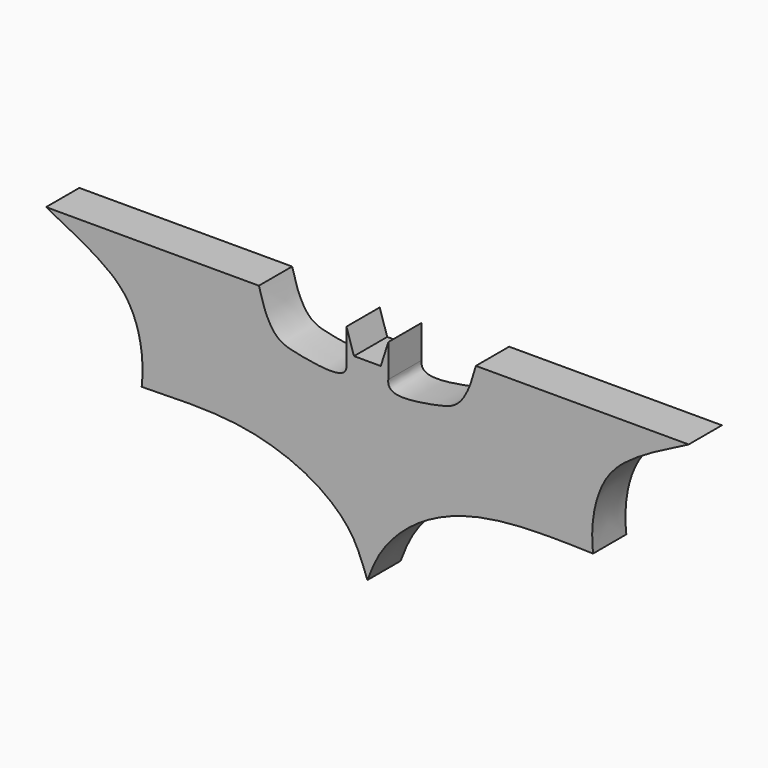
from build123d import *

# Parameters (mm, degrees)
F1_DEPTH = 12.7


with BuildPart() as f1:
    # F0 (on Front) → F1 (new body)
    with BuildSketch(Plane.XZ):
        with BuildLine():
            Line((-47.8423386812, 36.1196212471), (-98.2083454728, 36.1196212471))
            add(Edge.make_bspline(
                [(-98.2083454728, 36.1196212471), (-92.9814011316, 33.5018735493), (-83.1938461475, 28.5898029458), (-72.4853630693, 20.3761444501), (-68.5298321307, 7.6967199542), (-68.6231864508, 0.6159058766), (-68.985783967, -2.7484176815)],
                knots=[0, 0, 0, 0, 0.2843076029, 0.5334227345, 0.7778643257, 1, 1, 1, 1], degree=3))
            add(Edge.make_bspline(
                [(-68.985783967, -2.7484176815), (-60.5523734206, -2.5156977252), (-46.4693759844, -2.1718818852), (-30.3062593109, -4.6619222167), (-14.9512649183, -10.9532512054), (-3.8126822448, -21.0357070143), (-1.3090632622, -28.9381589303), (0, -32.3205428291)],
                knots=[0, 0, 0, 0, 0.2386650347, 0.4385267084, 0.6403142356, 0.830764896, 1, 1, 1, 1], degree=3))
            add(Edge.make_bspline(
                [(0, -32.3205428291), (1.084082323, -29.482491613), (3.4711648995, -23.2332774476), (12.8412090289, -12.706221608), (28.0845108907, -4.868457196), (47.0175632372, -2.1329299316), (61.4771481413, -2.5380468269), (68.985783967, -2.7484176815)],
                knots=[0, 0, 0, 0, 0.1541812818, 0.3394976964, 0.545482396, 0.7639761316, 1, 1, 1, 1], degree=3))
            add(Edge.make_bspline(
                [(98.2083454728, 36.1196212471), (92.9814011316, 33.5018735493), (83.1938461475, 28.5898029458), (72.4853630693, 20.3761444501), (68.5298321307, 7.6967199542), (68.6231864508, 0.6159058766), (68.985783967, -2.7484176815)],
                knots=[0, 0, 0, 0, 0.2843076029, 0.5334227345, 0.7778643257, 1, 1, 1, 1], degree=3))
            Line((98.2083454728, 36.1196212471), (47.8423386812, 36.1196212471))
            Line((47.8423386812, 36.1196212471), (33.1642441452, 36.1196212471))
            add(Edge.make_bspline(
                [(33.1642441452, 36.1196212471), (32.6025420112, 34.0349536871), (31.4443639748, 29.7845055292), (27.7748779826, 23.0775369724), (20.6417913252, 21.3890235759), (7.3106834309, 19.255974263), (6.2336376618, 22.5606487659), (6.3983085565, 23.7439740449)],
                knots=[0, 0, 0, 0, 0.1941499259, 0.3914982274, 0.5997825522, 0.8648914451, 1, 1, 1, 1], degree=3))
            Line((6.3983085565, 23.7439740449), (6.3983085565, 33.8171757758))
            Line((6.3983085565, 33.8171757758), (4.0958626196, 26.6220327467))
            Line((4.0958626196, 26.6220327467), (0, 26.6220327467))
            Line((0, 26.6220327467), (-4.0958626196, 26.6220327467))
            Line((-4.0958626196, 26.6220327467), (-6.3983085565, 33.8171757758))
            Line((-6.3983085565, 33.8171757758), (-6.3983085565, 23.7439740449))
            add(Edge.make_bspline(
                [(-33.1642441452, 36.1196212471), (-32.6025420112, 34.0349536871), (-31.4443639748, 29.7845055292), (-27.7748779826, 23.0775369724), (-20.6417913252, 21.3890235759), (-7.3106834309, 19.255974263), (-6.2336376618, 22.5606487659), (-6.3983085565, 23.7439740449)],
                knots=[0, 0, 0, 0, 0.1941499259, 0.3914982274, 0.5997825522, 0.8648914451, 1, 1, 1, 1], degree=3))
            Line((-33.1642441452, 36.1196212471), (-47.8423386812, 36.1196212471))
        make_face()
    extrude(amount=F1_DEPTH)


solid = f1.part
